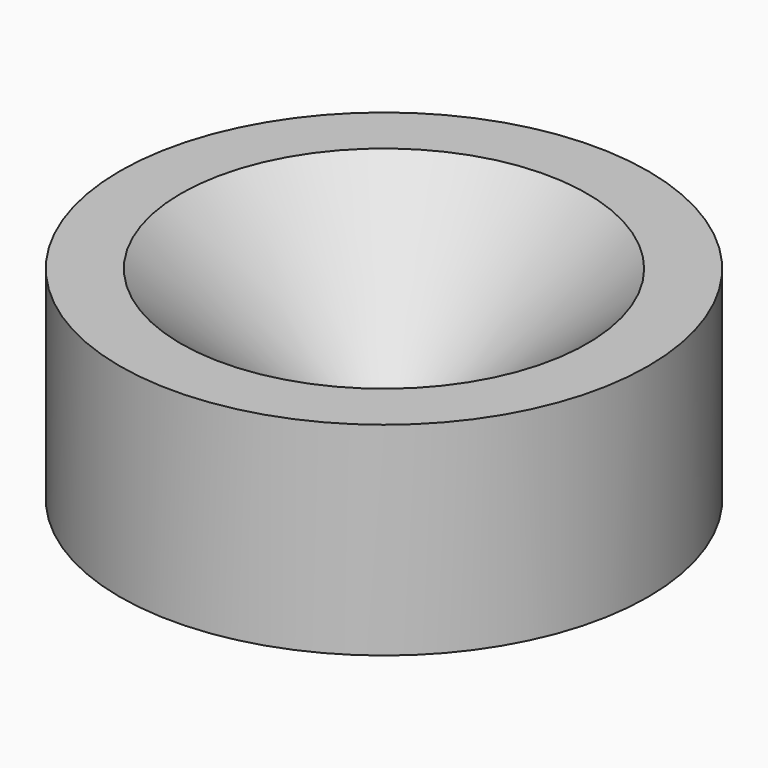
from build123d import *


with BuildPart() as part:
    with BuildSketch(Plane(origin=(0, 0, 0), x_dir=(-1, 0, 0), z_dir=(0, 1, 0))):
        Polygon((6.5, 0), (6.5, 5), (5, 5), (1, 1.5), (1, 1), (2, 0), align=None)
    revolve(axis=Axis((0, 0, -10), (0, 0, 1)))


solid = part.part
